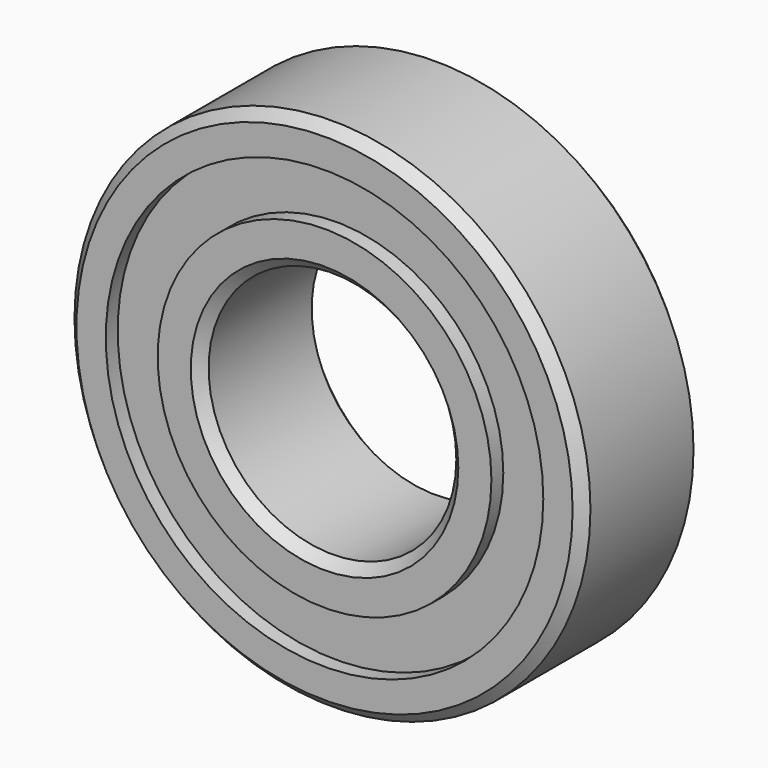
from build123d import *

# Parameters (mm, degrees)
F0_R     = 26.035
F0_R_2   = 12.5
F1_DEPTH = 15
F2_R     = 22.074638
F2_R_2   = 16.838659
F3_DEPTH = 1.5
F4_R     = 21.491301
F4_R_2   = 16.261001
F5_DEPTH = 1.5
F6_SIZE  = 1


with BuildPart() as f1:
    # F0 (on Front) → F1 (new body)
    with BuildSketch(Plane.XZ):
        Circle(F0_R)
        Circle(F0_R_2, mode=Mode.SUBTRACT)
    extrude(amount=F1_DEPTH)

    # F2 (on face) → F3 (cut)
    with BuildSketch(Plane.XZ.offset(15)):
        Circle(F2_R)
        Circle(F2_R_2, mode=Mode.SUBTRACT)
    extrude(amount=-F3_DEPTH, mode=Mode.SUBTRACT)

    # F4 (on face) → F5 (cut)
    with BuildSketch(Plane(origin=(0, 0, 0), x_dir=(-1, 0, 0), z_dir=(0, 1, 0))):
        Circle(F4_R)
        Circle(F4_R_2, mode=Mode.SUBTRACT)
    extrude(amount=-F5_DEPTH, mode=Mode.SUBTRACT)

    # F6
    f6_edges = [f1.edges().sort_by_distance(p)[0] for p in [
        (-26.035, 0, 0),
        (-26.035, -15, 0),
        (-12.5, -15, 0),
        (-12.5, 0, 0),
    ]]
    chamfer(f6_edges, length=F6_SIZE)


solid = f1.part
